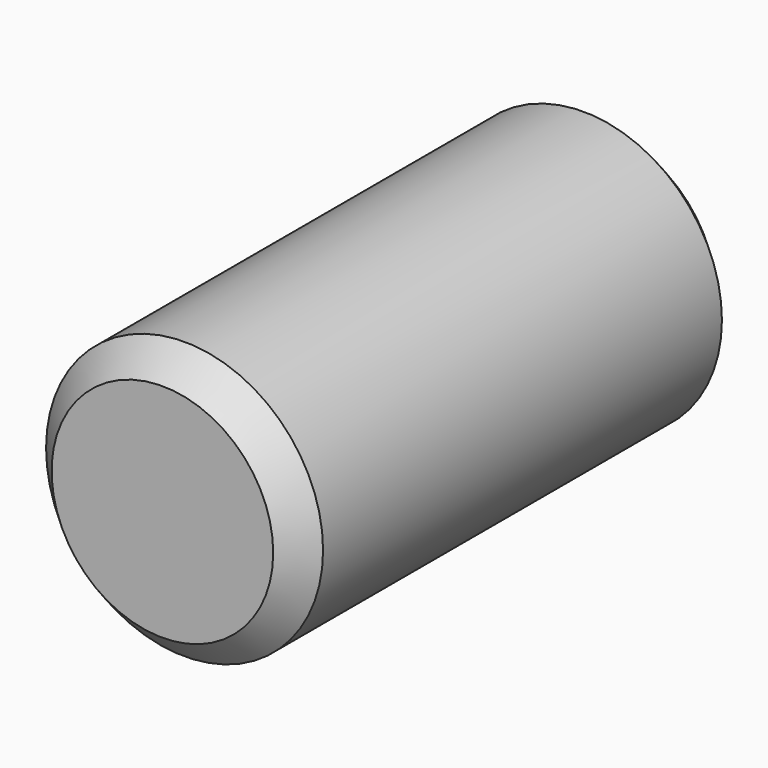
from build123d import *

# Parameters (mm, degrees)
F0_R     = 6.35
F1_DEPTH = 25.4
F2_SIZE  = 1.27
F3_SIZE  = 1.27


with BuildPart() as f1:
    # F0 (on Front) → F1 (new body)
    with BuildSketch(Plane.XZ):
        Circle(F0_R)
    extrude(amount=F1_DEPTH)

    # F2
    f2_edges = [f1.edges().sort_by_distance(p)[0] for p in [
        (-6.35, -25.4, 0),
    ]]
    chamfer(f2_edges, length=F2_SIZE)

    # F3
    f3_edges = [f1.edges().sort_by_distance(p)[0] for p in [
        (-6.35, 0, 0),
    ]]
    chamfer(f3_edges, length=F3_SIZE)


solid = f1.part
